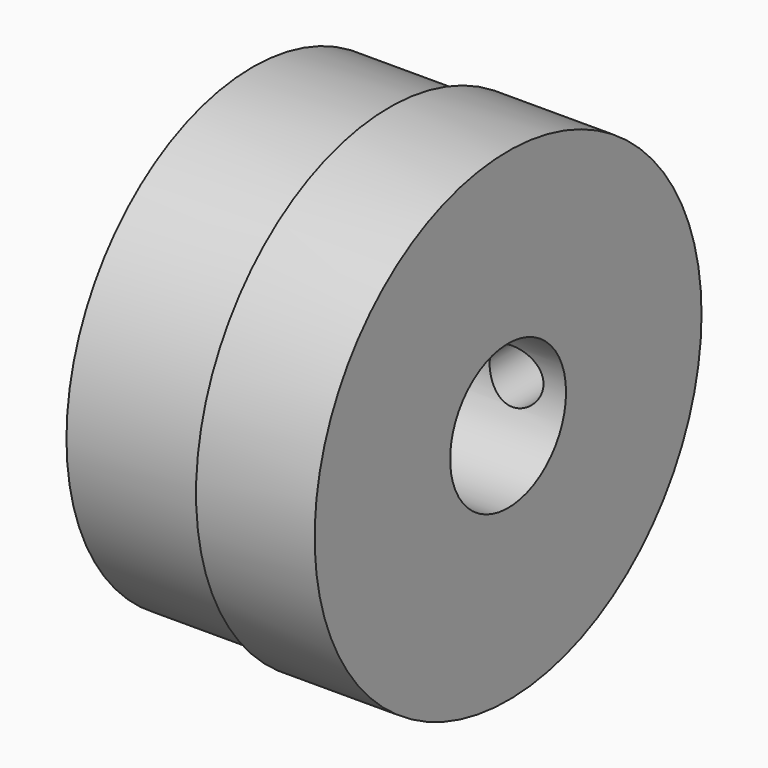
from build123d import *

# Parameters (mm, degrees)
F0_R      = 53
F1_DEPTH  = 26
F2_R      = 51
F3_DEPTH  = 30
F6_R      = 22.225
F7_DEPTH  = 25
F4_R      = 15.875
F8_DEPTH  = 31
F7_FACE_R = 22.225
F9_DEPTH  = 25
F10_R     = 22.225
F11_DEPTH = 25
F12_R     = 5.904872
F13_DEPTH = 57


with BuildPart() as f1:
    # F0 (on Right) → F1 (new body)
    with BuildSketch(Plane.YZ):
        Circle(F0_R)
    extrude(amount=F1_DEPTH)

    # F2 (on face) → F3 (join)
    with BuildSketch(Plane(origin=(0, 0, 0), x_dir=(0, -1, 0), z_dir=(-1, 0, 0))):
        Circle(F2_R)
    extrude(amount=F3_DEPTH)

    # F6 (on face) → F7 (join)
    with BuildSketch(Plane(origin=(-30, 0, 0), x_dir=(0, -1, 0), z_dir=(-1, 0, 0))):
        Circle(F6_R)
    extrude(amount=F7_DEPTH)

    # F4 (on face) → F8 (cut)
    with BuildSketch(Plane.YZ.offset(26)):
        Circle(F4_R)
    extrude(amount=-F8_DEPTH, mode=Mode.SUBTRACT)

    # F7_face (on face) → F9 (cut)
    with BuildSketch(Plane(origin=(-55, 0, 0), x_dir=(0, -1, 0), z_dir=(-1, 0, 0))):
        Circle(F7_FACE_R)
    extrude(amount=-F9_DEPTH, mode=Mode.SUBTRACT)

    # F10 (on face) → F11 (cut)
    with BuildSketch(Plane(origin=(-30, 0, 0), x_dir=(0, -1, 0), z_dir=(-1, 0, 0))):
        Circle(F10_R)
    extrude(amount=-F11_DEPTH, mode=Mode.SUBTRACT)

    # F12 (on Front) → F13 (cut)
    with BuildSketch(Plane.XZ):
        with Locations((15.155762, 0)):
            Circle(F12_R)
    extrude(amount=-F13_DEPTH, mode=Mode.SUBTRACT)


solid = f1.part
